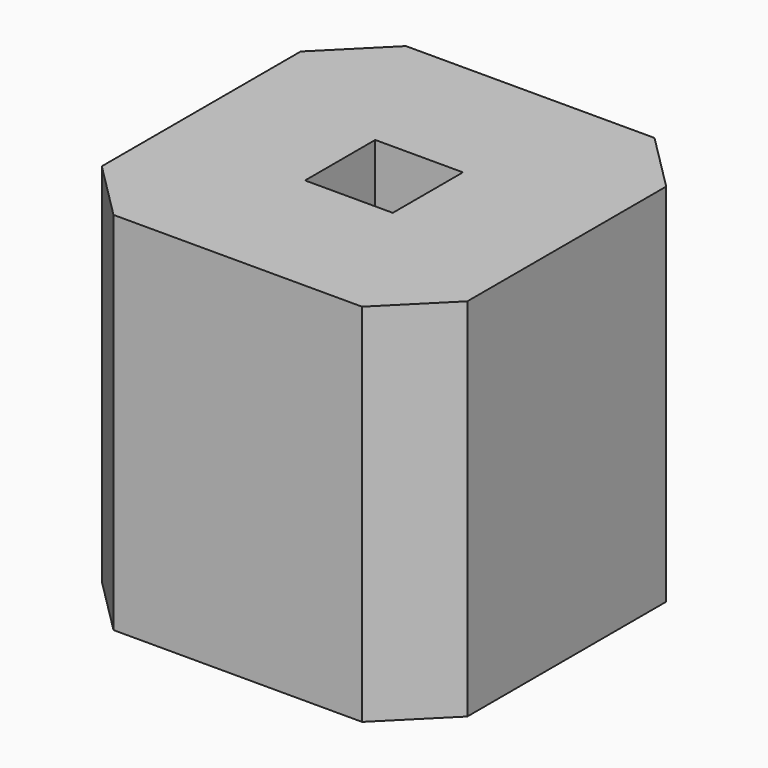
from build123d import *

# Parameters (mm, degrees)
F0_W     = 2.5
F0_H     = 2.5
F1_DEPTH = 2.5
F2_W     = 0.6
F2_H     = 0.6
F3_DEPTH = 25
F4_SIZE  = 0.4


with BuildPart() as f1:
    # F0 (on Top) → F1 (new body)
    with BuildSketch(Plane.XY):
        with Locations((1.25, 1.25)):
            Rectangle(F0_W, F0_H)
    extrude(amount=F1_DEPTH)

    # F2 (on face) → F3 (cut)
    with BuildSketch(Plane.XY.offset(2.5)):
        with Locations((1.25, 1.25)):
            Rectangle(F2_W, F2_H)
    extrude(amount=-F3_DEPTH, mode=Mode.SUBTRACT)

    # F4
    f4_edges = [f1.edges().sort_by_distance(p)[0] for p in [
        (0, 0, 1.25),
        (2.5, 0, 1.25),
        (2.5, 2.5, 1.25),
        (0, 2.5, 1.25),
    ]]
    chamfer(f4_edges, length=F4_SIZE)


solid = f1.part
